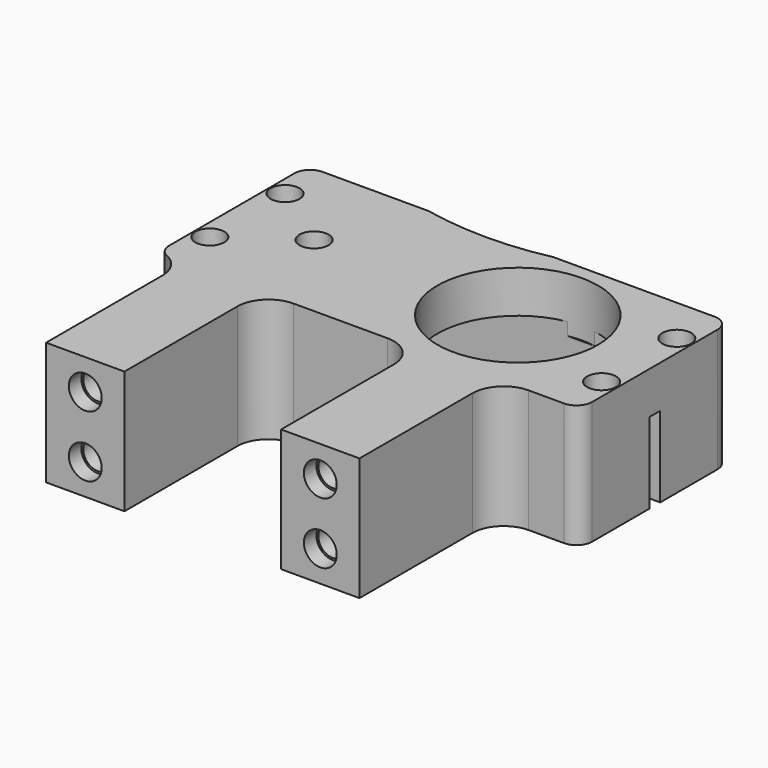
from build123d import *

# Parameters (mm, degrees)
SKETCH035_R                   = 7
SKETCH035_R_2                 = 1.85
PAD021_DEPTH                  = 5.4
PAD021_DEPTH_BACK             = 10.3
POCKET019_DEPTH               = 10.1
SKETCH039_W                   = 1.7
SKETCH039_H                   = 20
POCKET020_DEPTH               = 54.001
SKETCH043_R                   = 10.25
POCKET023_DEPTH               = 7
SKETCH044_W                   = 10
SKETCH044_H                   = 7.85
PAD025_DEPTH                  = 22
SKETCH045_R                   = 1.85
POCKET024_DEPTH               = 12
SKETCH046_R                   = 2.1
POCKET025_DEPTH               = 2
SKETCH044_MIRRORED002_2_W     = 10
SKETCH044_MIRRORED002_2_H     = 7.85
PAD025_MIRRORED002_2_DEPTH    = 22
SKETCH045_MIRRORED002_2_R     = 1.85
POCKET024_MIRRORED002_2_DEPTH = 12
SKETCH046_MIRRORED002_2_R     = 2.1
POCKET025_MIRRORED002_2_DEPTH = 2
FILLET009_R                   = 4


with BuildPart() as part:
    # Sketch035 → Pad021 (new body, two sides)
    with BuildSketch(Plane.XY) as pad021_sk:
        with BuildLine():
            Line((-23.5, 10), (-23.5, -10))
            ThreePointArc((-23.5, -10), (-22.914214, -11.414214), (-21.5, -12))
            Line((-21.5, -12), (28.5, -12))
            ThreePointArc((28.5, -12), (29.914214, -11.414214), (30.5, -10))
            Line((30.5, -10), (30.5, 10))
            ThreePointArc((30.5, 10), (29.914214, 11.414214), (28.5, 12))
            Line((8, 12), (28.5, 12))
            ThreePointArc((-8, 12), (0, 11.167024), (8, 12))
            Line((-21.5, 12), (-8, 12))
            ThreePointArc((-21.5, 12), (-22.914214, 11.414214), (-23.5, 10))
        make_face()
        with Locations((13, 0)):
            Circle(SKETCH035_R, mode=Mode.SUBTRACT)
        with Locations((-21.5, 6)):
            Circle(SKETCH035_R_2, mode=Mode.SUBTRACT)
        with Locations((-21.5, -6)):
            Circle(SKETCH035_R_2, mode=Mode.SUBTRACT)
        with Locations((28.5, 6)):
            Circle(SKETCH035_R_2, mode=Mode.SUBTRACT)
        with Locations((28.5, -6)):
            Circle(SKETCH035_R_2, mode=Mode.SUBTRACT)
        with Locations((-13, 0)):
            Circle(SKETCH035_R_2, mode=Mode.SUBTRACT)
    extrude(amount=PAD021_DEPTH)
    extrude(pad021_sk.sketch, amount=-PAD021_DEPTH_BACK)

    # Sketch038 → Pocket019 (cut, symmetric)
    with BuildSketch(Plane.XZ):
        with BuildLine():
            Line((-16.5, -3), (-16.5, -20))
            Line((-16.5, -20), (23.5, -20))
            Line((23.5, -20), (23.5, -3))
            ThreePointArc((23.5, -3), (22.62132, -0.87868), (20.5, 0))
            Line((20.5, 0), (-13.5, 0))
            ThreePointArc((-13.5, 0), (-15.62132, -0.87868), (-16.5, -3))
        make_face()
    extrude(amount=POCKET019_DEPTH, both=True, mode=Mode.SUBTRACT)

    # Sketch039 (on Face3 of Pocket019) → Pocket020 (cut, through all)
    with BuildSketch(Plane(origin=(-23.5, 0, 0), x_dir=(0, -1, 0), z_dir=(-1, 0, 0))):
        with Locations((0, -10)):
            Rectangle(SKETCH039_W, SKETCH039_H)
    extrude(amount=-POCKET020_DEPTH, mode=Mode.SUBTRACT)

    # Sketch043 (on Face5 of Pocket020) → Pocket023 (cut)
    with BuildSketch(Plane.XY.offset(5.4)):
        with Locations((13, 0)):
            Circle(SKETCH043_R)
    extrude(amount=-POCKET023_DEPTH, mode=Mode.SUBTRACT)

    # Sketch044 → Pad025 (join)
    with BuildSketch(Plane(origin=(0, -12, -2.45), x_dir=(1, 0, 0), z_dir=(0, -1, 0))):
        with Locations((-15, 3.925)):
            Rectangle(SKETCH044_W, SKETCH044_H)
    pad025 = extrude(amount=PAD025_DEPTH)

    # Sketch045 (on Face43 of Pad025) → Pocket024 (cut)
    with BuildSketch(Plane.XZ.offset(34)):
        with Locations((-15, 1.475)):
            Circle(SKETCH045_R)
    pocket024 = extrude(amount=-POCKET024_DEPTH, mode=Mode.SUBTRACT)

    # Sketch046 (on Face43 of Pocket024) → Pocket025 (cut)
    with BuildSketch(Plane.XZ.offset(34)):
        with Locations((-15, 1.475)):
            Circle(SKETCH046_R)
    pocket025 = extrude(amount=-POCKET025_DEPTH, mode=Mode.SUBTRACT)

    # Sketch044 Mirrored002 2 → Pad025 Mirrored002 2 (add)
    with BuildSketch(Plane(origin=(0, -12, -2.45), x_dir=(-1, 0, 0), z_dir=(0, 1, 0))):
        with Locations((-15, 3.925)):
            Rectangle(SKETCH044_MIRRORED002_2_W, SKETCH044_MIRRORED002_2_H)
    pad025_mirrored002_2 = extrude(amount=-PAD025_MIRRORED002_2_DEPTH)

    # Sketch045 Mirrored002 2 → Pocket024 Mirrored002 2 (cut)
    with BuildSketch(Plane(origin=(0, -34, 0), x_dir=(-1, 0, 0), z_dir=(0, 1, 0))):
        with Locations((-15, 1.475)):
            Circle(SKETCH045_MIRRORED002_2_R)
    pocket024_mirrored002_2 = extrude(amount=POCKET024_MIRRORED002_2_DEPTH, mode=Mode.SUBTRACT)

    # Sketch046 Mirrored002 2 → Pocket025 Mirrored002 2 (cut)
    with BuildSketch(Plane(origin=(0, -34, 0), x_dir=(-1, 0, 0), z_dir=(0, 1, 0))):
        with Locations((-15, 1.475)):
            Circle(SKETCH046_MIRRORED002_2_R)
    pocket025_mirrored002_2 = extrude(amount=POCKET025_MIRRORED002_2_DEPTH, mode=Mode.SUBTRACT)

    # Mirrored003: Pad025, Pocket024, Pocket025, Pad025 Mirrored002 2, Pocket024 Mirrored002 2, Pocket025 Mirrored002 2 across Sketch044 H_Axis
    add(pad025.mirror(Plane(origin=(0, -12, -2.45), x_dir=(0, -1, 0), z_dir=(0, 0, 1))))
    add(pocket024.mirror(Plane(origin=(0, -12, -2.45), x_dir=(0, -1, 0), z_dir=(0, 0, 1))), mode=Mode.SUBTRACT)
    add(pocket025.mirror(Plane(origin=(0, -12, -2.45), x_dir=(0, -1, 0), z_dir=(0, 0, 1))), mode=Mode.SUBTRACT)
    add(pad025_mirrored002_2.mirror(Plane(origin=(0, -12, -2.45), x_dir=(0, -1, 0), z_dir=(0, 0, 1))))
    add(pocket024_mirrored002_2.mirror(Plane(origin=(0, -12, -2.45), x_dir=(0, -1, 0), z_dir=(0, 0, 1))), mode=Mode.SUBTRACT)
    add(pocket025_mirrored002_2.mirror(Plane(origin=(0, -12, -2.45), x_dir=(0, -1, 0), z_dir=(0, 0, 1))), mode=Mode.SUBTRACT)

    # Fillet009
    fillet009_edges = [part.edges().sort_by_distance(p)[0] for p in [
        (-20, -12, -2.45),
        (-10, -12, -2.45),
        (10, -12, -2.45),
        (20, -12, -2.45),
    ]]
    fillet(fillet009_edges, radius=FILLET009_R)


with BuildPart() as part_1:
    # Body009 placement: moved
    add(part.part.moved(Location((0, -50, 0))))


solid = part_1.part
